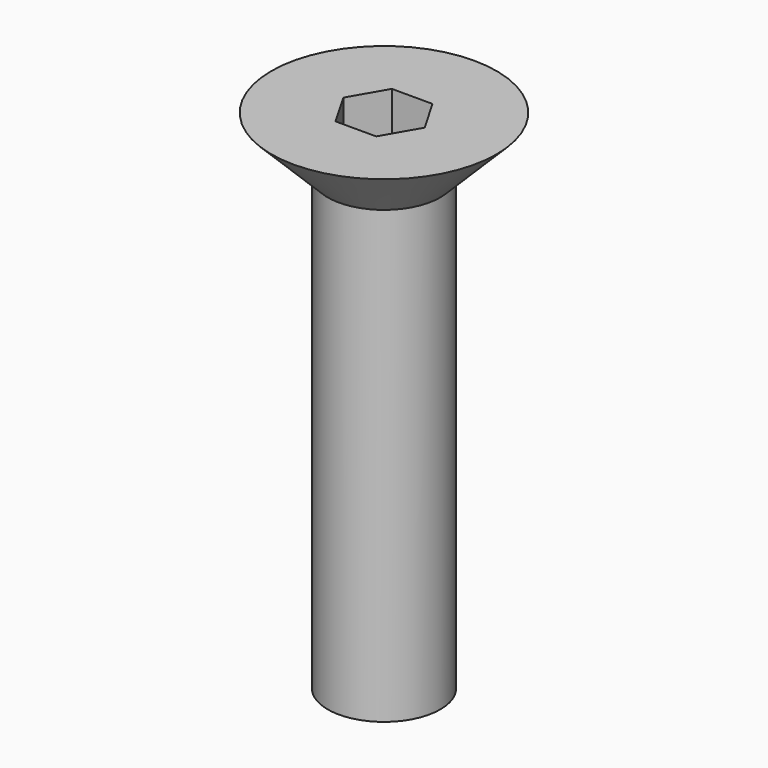
from build123d import *

# Parameters (mm, degrees)
F3_DEPTH = 2


with BuildPart() as f1:
    # F0 (on Front) → F1 (revolve)
    with BuildSketch(Plane.XZ):
        Polygon((4, 0), (0, 0), (0, -18), (2, -18), (2, -2), align=None)
    revolve(axis=Axis((0, 0, -9), (0, 0, 1)))

    # F2 (on face) → F3 (cut)
    with BuildSketch(Plane.XY):
        Polygon((0.721688, 1.25), (-0.721688, 1.25), (-1.443376, 0), (-0.721688, -1.25), (0.721688, -1.25), (1.443376, 0), align=None)
    extrude(amount=-F3_DEPTH, mode=Mode.SUBTRACT)


solid = f1.part
